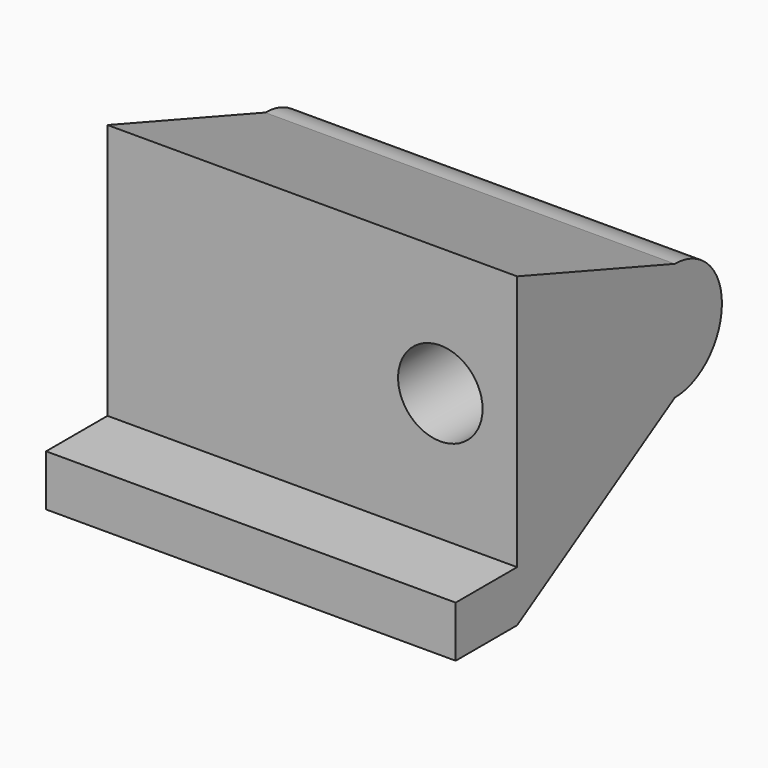
from build123d import *

# Parameters (mm, degrees)
F0_W     = 16
F0_H     = 12
F0_R     = 1.65
F1_DEPTH = 13
F2_W     = 16
F2_H     = 10
F2_R     = 1.65
F3_DEPTH = 3
F5_DEPTH = 16.001
F6_R     = 1.3
F7_DEPTH = 10


with BuildPart() as f1:
    # F0 (on Front) → F1 (new body)
    with BuildSketch(Plane.XZ):
        with Locations((-5.952034, -1)):
            Rectangle(F0_W, F0_H)
        with Locations((-0.952034, 0)):
            Circle(F0_R, mode=Mode.SUBTRACT)
    extrude(amount=F1_DEPTH)

    # F2 (on face) → F3 (cut)
    with BuildSketch(Plane.XZ.offset(13)):
        with Locations((-5.952034, 0)):
            Rectangle(F2_W, F2_H)
        with Locations((-0.952034, 0)):
            Circle(F2_R, mode=Mode.SUBTRACT)
    extrude(amount=-F3_DEPTH, mode=Mode.SUBTRACT)

    # F4 (on face) → F5 (cut, through all)
    with BuildSketch(Plane(origin=(-13.952034, 0, 0), x_dir=(0, -1, 0), z_dir=(-1, 0, 0))):
        with BuildLine():
            ThreePointArc((0, 0), (0.673654, 1.626346), (2.3, 2.3))
            Line((2.3, 2.3), (10, 5))
            Line((10, 5), (0, 5))
            Line((0, 5), (0, 0))
        make_face()
        with BuildLine():
            Line((10, -7), (2.3, -2.3))
            ThreePointArc((2.3, -2.3), (0.673654, -1.626346), (0, 0))
            Line((0, 0), (0, -7))
            Line((0, -7), (10, -7))
        make_face()
    extrude(amount=-F5_DEPTH, mode=Mode.SUBTRACT)

    # F6 (on face) → F7 (cut)
    with BuildSketch(Plane(origin=(-13.952034, 0, 0), x_dir=(0, -1, 0), z_dir=(-1, 0, 0))):
        with Locations((2.3, 0)):
            Circle(F6_R)
    extrude(amount=-F7_DEPTH, mode=Mode.SUBTRACT)


solid = f1.part
